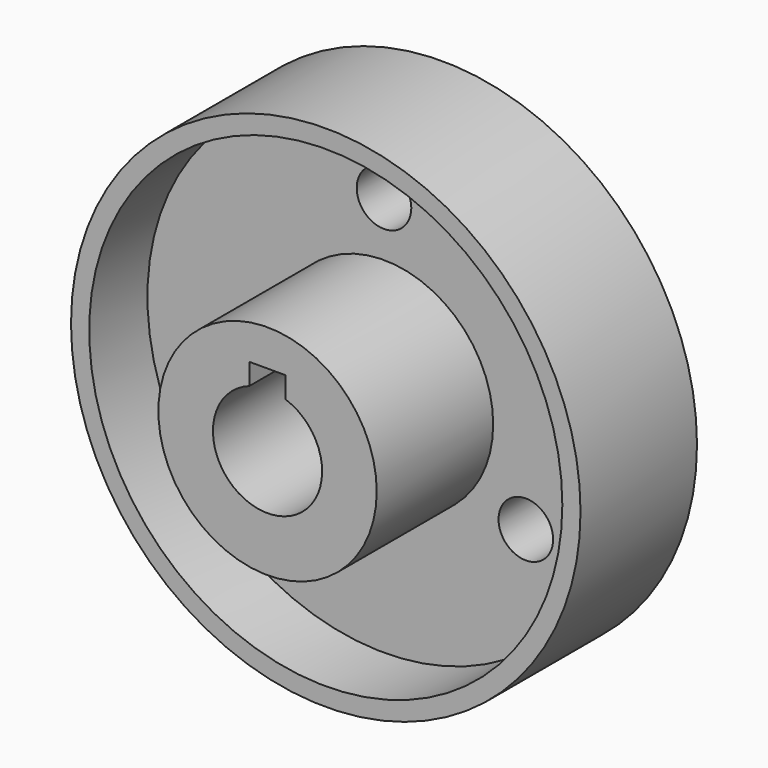
from build123d import *

# Parameters (mm, degrees)
F0_R      = 44.45
F1_DEPTH  = 12.7
F2_R      = 19.05
F3_DEPTH  = 38.1
F4_R      = 9.525
F5_DEPTH  = 38.101
F7_DEPTH  = 38.101
F8_R      = 4.7625
F9_DEPTH  = 38.101
F10_R     = 44.45
F10_R_2   = 41.275
F11_DEPTH = 25.4


with BuildPart() as f1:
    # F0 (on Front) → F1 (new body)
    with BuildSketch(Plane.XZ):
        Circle(F0_R)
    extrude(amount=F1_DEPTH)

    # F2 (on Front) → F3 (join)
    with BuildSketch(Plane.XZ):
        Circle(F2_R)
    extrude(amount=F3_DEPTH)

    # F4 (on Front) → F5 (cut, through all)
    with BuildSketch(Plane.XZ):
        Circle(F4_R)
    extrude(amount=F5_DEPTH, mode=Mode.SUBTRACT)

    # F6 (on Front) → F7 (cut, through all)
    with BuildSketch(Plane.XZ):
        Polygon((-3.175, 0), (0, 0), (3.175, 0), (3.175, 12.7), (0, 12.7), (-3.175, 12.7), align=None)
    extrude(amount=F7_DEPTH, mode=Mode.SUBTRACT)

    # F8 (on Front) → F9 (cut, through all)
    with BuildSketch(Plane.XZ):
        with Locations((0, 28.575)):
            Circle(F8_R)
        with Locations((-24.746676, -14.2875)):
            Circle(F8_R)
        with Locations((24.746676, -14.2875)):
            Circle(F8_R)
    extrude(amount=F9_DEPTH, mode=Mode.SUBTRACT)

    # F10 (on Front) → F11 (join)
    with BuildSketch(Plane.XZ):
        Circle(F10_R)
        Circle(F10_R_2, mode=Mode.SUBTRACT)
    extrude(amount=F11_DEPTH)


solid = f1.part
